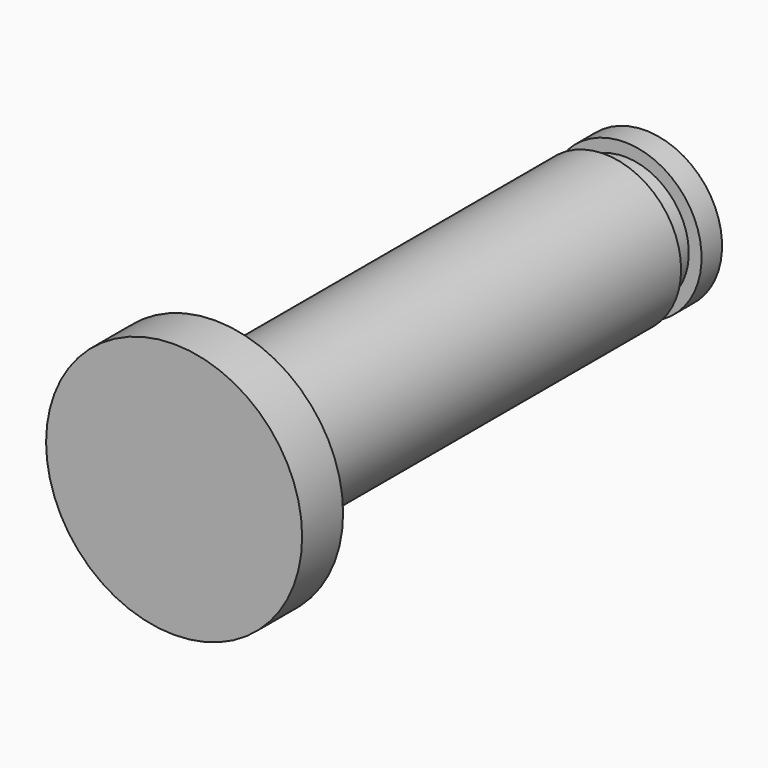
from build123d import *

# Parameters (mm, degrees)
F0_R     = 1.5
F1_DEPTH = 9.5
F2_R     = 2.5
F3_DEPTH = 1
F4_R     = 1.25
F5_DEPTH = 0.5
F6_R     = 1.5
F7_DEPTH = 0.5


with BuildPart() as f1:
    # F0 (on Front) → F1 (new body)
    with BuildSketch(Plane.XZ):
        Circle(F0_R)
    extrude(amount=F1_DEPTH)

    # F2 (on face) → F3 (join)
    with BuildSketch(Plane.XZ.offset(9.5)):
        Circle(F2_R)
    extrude(amount=F3_DEPTH)

    # F4 (on face) → F5 (join)
    with BuildSketch(Plane(origin=(0, 0, 0), x_dir=(-1, 0, 0), z_dir=(0, 1, 0))):
        Circle(F4_R)
    extrude(amount=F5_DEPTH)

    # F6 (on face) → F7 (join)
    with BuildSketch(Plane(origin=(0, 0.5, 0), x_dir=(-1, 0, 0), z_dir=(0, 1, 0))):
        Circle(F6_R)
    extrude(amount=F7_DEPTH)


solid = f1.part
